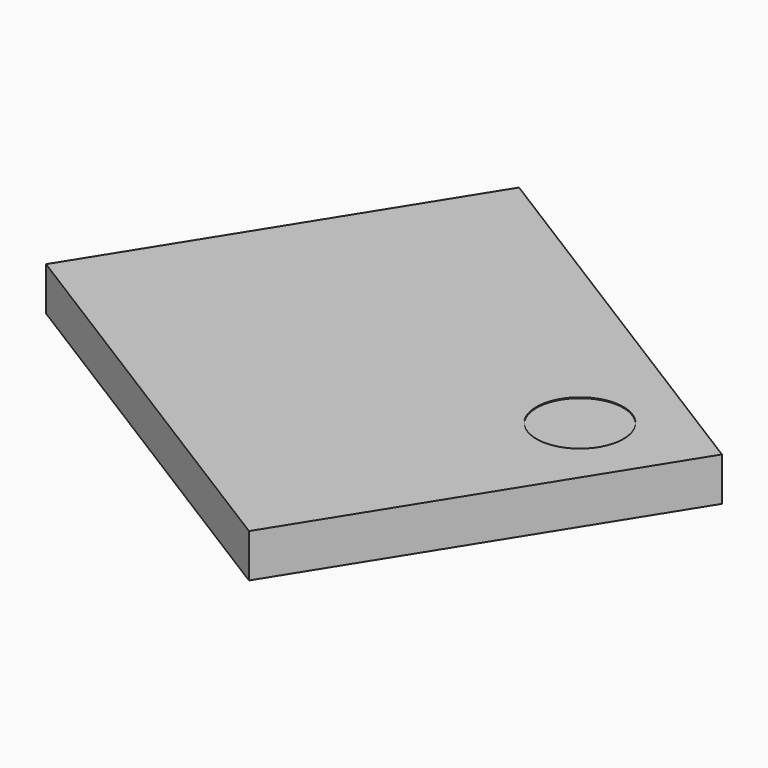
from build123d import *

# Parameters (mm, degrees)
CYLINDER082_R          = 0.5
CYLINDER082_DEPTH      = 0.01
BOX179_W               = 4.5
BOX179_H               = 5.5
BOX179_DEPTH           = 0.5
CUT088_PLACEMENT_ANGLE = 122


with BuildPart() as cylinder082:
    # Cylinder082 → Cylinder082 (new body)
    with BuildSketch(Plane(origin=(1, 4.5, 0.49), x_dir=(1, 0, 0), z_dir=(0, 0, 1))):
        Circle(CYLINDER082_R)
    extrude(amount=CYLINDER082_DEPTH)


with BuildPart() as obj1:
    # Box179 → Box179 (new body)
    with BuildSketch(Plane.XY):
        with Locations((2.25, 2.75)):
            Rectangle(BOX179_W, BOX179_H)
    extrude(amount=BOX179_DEPTH)

    # Cut088: cut Cylinder082
    add(cylinder082.part, mode=Mode.SUBTRACT)


with BuildPart() as obj1_1:
    # Cut088 placement: moved
    add(obj1.part.moved(Location((-9.677147, 22.819562, 2.79))).rotate(Axis((-9.677147, 22.819562, 2.79), (0, 0, -1)), CUT088_PLACEMENT_ANGLE))


solid = obj1_1.part
